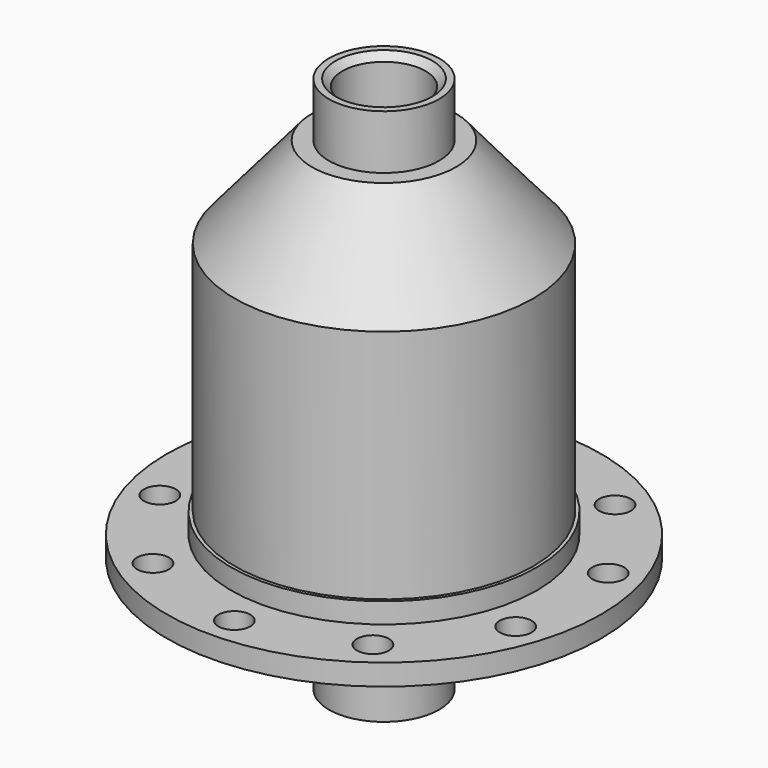
from build123d import *

# Parameters (mm, degrees)
F2_SIZE  = 2.54
F5_DEPTH = 22.86
F4_R     = 5.969
F6_DEPTH = 176.3532


with BuildPart() as f1:
    # F0 (on Front) → F1 (revolve)
    with BuildSketch(Plane.XZ):
        Polygon((15.5575, 0), (20.6375, 0), (20.6375, 24.765), (28.6639, 24.765), (28.6639, 32.385), (53.975, 43.18), (81.28, 43.18), (81.28, 51.1048), (57.15, 51.1048), (57.15, 58.7248), (55.88, 58.7248), (55.88, 146.869346), (26.9875, 180.7972), (20.6375, 180.7972), (20.6375, 201.1172), (15.5575, 201.1172), align=None)
    revolve(axis=Axis((0, 0, 0.880979), (0, 0, -1)))

    # F2
    f2_edges = [f1.edges().sort_by_distance(p)[0] for p in [
        (-15.5575, 0, 201.1172),
        (-15.5575, 0, 0),
        (15.5575, 0, 100.5586),
    ]]
    chamfer(f2_edges, length=F2_SIZE)

    # F4 (on offset) → F5 (cut)
    with BuildSketch(Plane(origin=(0, 0, 24.765), x_dir=(1, 0, 0), z_dir=(0, 0, -1))):
        with BuildLine():
            ThreePointArc((17.438577, 23.688146), (25.47399, 14.707415), (29.233824, 3.258178))
            Line((29.233824, 3.258178), (55.293112, 3.258178))
            ThreePointArc((55.293112, 3.258178), (47.968302, 27.694512), (30.468221, 46.256151))
            Line((30.468221, 46.256151), (17.438577, 23.688146))
        make_face()
        with BuildLine():
            ThreePointArc((-11.795247, 26.946324), (0, 29.41483), (11.795247, 26.946324))
            Line((11.795247, 26.946324), (24.824891, 49.514329))
            ThreePointArc((24.824891, 49.514329), (0, 55.389024), (-24.824891, 49.514329))
            Line((-24.824891, 49.514329), (-11.795247, 26.946324))
        make_face()
        with BuildLine():
            ThreePointArc((-29.233824, 3.258178), (-25.47399, 14.707415), (-17.438577, 23.688146))
            Line((-17.438577, 23.688146), (-30.468221, 46.256151))
            ThreePointArc((-30.468221, 46.256151), (-47.968302, 27.694512), (-55.293112, 3.258178))
            Line((-55.293112, 3.258178), (-29.233824, 3.258178))
        make_face()
        with BuildLine():
            Line((-30.468221, -46.256151), (-17.438577, -23.688146))
            ThreePointArc((-17.438577, -23.688146), (-25.47399, -14.707415), (-29.233824, -3.258178))
            Line((-29.233824, -3.258178), (-55.293112, -3.258178))
            ThreePointArc((-55.293112, -3.258178), (-47.968302, -27.694512), (-30.468221, -46.256151))
        make_face()
        with BuildLine():
            Line((24.824891, -49.514329), (11.795247, -26.946324))
            ThreePointArc((11.795247, -26.946324), (0, -29.41483), (-11.795247, -26.946324))
            Line((-11.795247, -26.946324), (-24.824891, -49.514329))
            ThreePointArc((-24.824891, -49.514329), (0, -55.389024), (24.824891, -49.514329))
        make_face()
        with BuildLine():
            Line((55.293112, -3.258178), (29.233824, -3.258178))
            ThreePointArc((29.233824, -3.258178), (25.47399, -14.707415), (17.438577, -23.688146))
            Line((17.438577, -23.688146), (30.468221, -46.256151))
            ThreePointArc((30.468221, -46.256151), (47.968302, -27.694512), (55.293112, -3.258178))
        make_face()
    extrude(amount=-F5_DEPTH, mode=Mode.SUBTRACT)

    # F4 (on offset) → F6 (cut, through all)
    with BuildSketch(Plane(origin=(0, 0, 24.765), x_dir=(1, 0, 0), z_dir=(0, 0, -1))):
        with Locations((0, 69.9897)):
            Circle(F4_R)
        with Locations((41.138913, 56.622857)):
            Circle(F4_R)
        with Locations((66.56416, 21.628007)):
            Circle(F4_R)
        with Locations((66.56416, -21.628007)):
            Circle(F4_R)
        with Locations((-41.138913, 56.622857)):
            Circle(F4_R)
        with Locations((-66.56416, 21.628007)):
            Circle(F4_R)
        with Locations((-66.56416, -21.628007)):
            Circle(F4_R)
        with Locations((-41.138913, -56.622857)):
            Circle(F4_R)
        with Locations((0, -69.9897)):
            Circle(F4_R)
        with Locations((41.138913, -56.622857)):
            Circle(F4_R)
    extrude(amount=-F6_DEPTH, mode=Mode.SUBTRACT)


solid = f1.part
